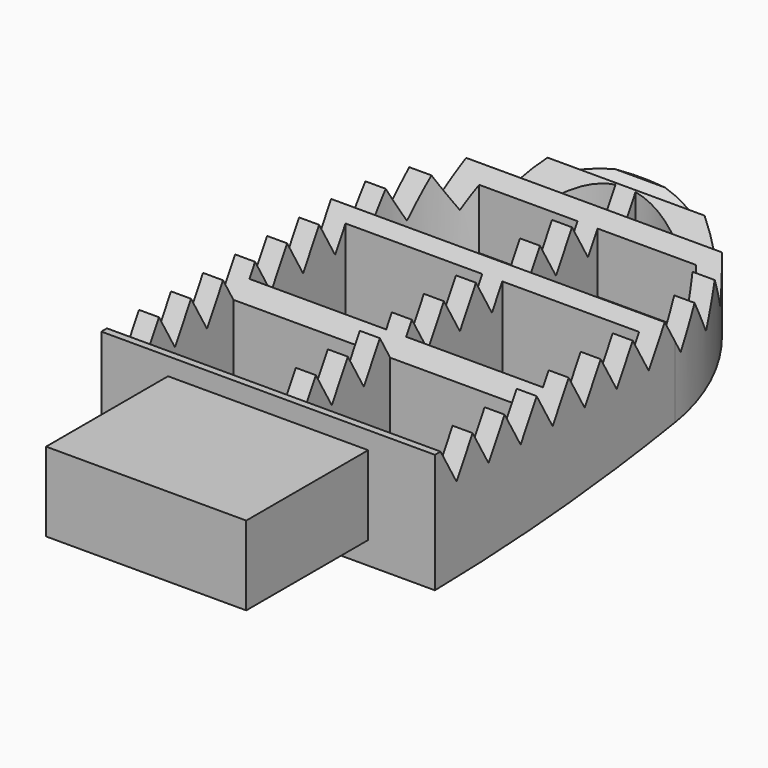
from build123d import *

# Parameters (mm, degrees)
F0_W      = 30
F0_H      = 22.8446739912
F1_DEPTH  = 30
F3_DEPTH  = 50.001
F5_DEPTH  = 50.001
F6_W      = 20.5
F6_H      = 18
F7_DEPTH  = 30.001
F8_W      = 23.6850994825
F8_H      = 6.8956923813
F9_DEPTH  = 50.001
F11_DEPTH = 50.001
F12_W     = 22.8446739912
F12_H     = 2.6407527924
F13_DEPTH = 40.0010001


with BuildPart() as f1:
    # F0 (on Top) → F1 (new body)
    with BuildSketch(Plane.XY):
        with BuildLine():
            ThreePointArc((25, 0), (0, 25), (-25, 0))
            Line((-25, 0), (-25, -45))
            Line((-25, -45), (-15, -45))
            Line((-15, -45), (15, -45))
            Line((15, -45), (25, -45))
            Line((25, -45), (25, 0))
        make_face()
        with Locations((0, -56.4223369956)):
            Rectangle(F0_W, F0_H)
    extrude(amount=F1_DEPTH)

    # F2 (on face) → F3 (cut, through all)
    with BuildSketch(Plane(origin=(-25, 0, 0), x_dir=(0, -1, 0), z_dir=(-1, 0, 0))):
        Polygon((0, 0), (0, 6.8956923813), (-25.6583113223, 19.2217491567), (-25.6583113223, 0), align=None)
        Polygon((0, 0), (14.3542923033, 0), (0, 6.8956923813), align=None)
    extrude(amount=-F3_DEPTH, mode=Mode.SUBTRACT)

    # F4 (on face) → F5 (cut, through all)
    with BuildSketch(Plane(origin=(-25, 0, 0), x_dir=(0, -1, 0), z_dir=(-1, 0, 0))):
        Polygon((-22.0570550542, 27.4019237886), (-22.0570550542, 30), (-24.7225984931, 30), align=None)
        Polygon((-19.0570550542, 24.8038475773), (-16.0570550542, 30), (-22.0570550542, 30), align=None)
        Polygon((-13.0570550542, 24.8038475773), (-10.0570550542, 30), (-16.0570550542, 30), align=None)
        Polygon((-7.0570550542, 24.8038475773), (-4.0570550542, 30), (-10.0570550542, 30), align=None)
        Polygon((-1.0570550542, 24.8038475773), (0, 26.6347206375), (0, 30), (-4.0570550542, 30), align=None)
        Polygon((0, 30), (0, 26.6347206375), (1.9429449458, 30), align=None)
        Polygon((4.9429449458, 24.8038475773), (7.9429449458, 30), (1.9429449458, 30), align=None)
        Polygon((10.9429449458, 24.8038475773), (13.9429449458, 30), (7.9429449458, 30), align=None)
        Polygon((16.9429449458, 24.8038475773), (19.9429449458, 30), (13.9429449458, 30), align=None)
        Polygon((22.9429449458, 24.8038475773), (25.9429449458, 30), (19.9429449458, 30), align=None)
        Polygon((28.9429449458, 24.8038475773), (31.9429449458, 30), (25.9429449458, 30), align=None)
        Polygon((34.9429449458, 24.8038475773), (37.9429449458, 30), (31.9429449458, 30), align=None)
        Polygon((40.9429449458, 24.8038475773), (43.9429449458, 30), (37.9429449458, 30), align=None)
    extrude(amount=-F5_DEPTH, mode=Mode.SUBTRACT)

    # F6 (on Top) → F7 (cut, through all)
    with BuildSketch(Plane.XY):
        with BuildLine():
            ThreePointArc((14.0728856666, 16.9101711705), (8.1838650627, 20.4211741248), (1.5, 21.9488040676))
            Line((1.5, 21.9488040676), (1.5, 16.9101711705))
            Line((1.5, 16.9101711705), (14.0728856666, 16.9101711705))
        make_face()
        with BuildLine():
            ThreePointArc((-1.5, 21.9488040676), (-8.1838650627, 20.4211741248), (-14.0728856666, 16.9101711705))
            Line((-14.0728856666, 16.9101711705), (-1.5, 16.9101711705))
            Line((-1.5, 16.9101711705), (-1.5, 21.9488040676))
        make_face()
        with BuildLine():
            Line((1.5, 14.8383843921), (1.5, 0))
            Line((1.5, 0), (22, 0))
            ThreePointArc((22, 0), (20.5102096408, 7.9580965369), (16.2426090463, 14.8383843921))
            Line((16.2426090463, 14.8383843921), (1.5, 14.8383843921))
        make_face()
        with BuildLine():
            ThreePointArc((-16.2426090463, 14.8383843921), (-20.5102096408, 7.9580965369), (-22, 0))
            Line((-22, 0), (-1.5, 0))
            Line((-1.5, 0), (-1.5, 14.8383843921))
            Line((-1.5, 14.8383843921), (-16.2426090463, 14.8383843921))
        make_face()
        with Locations((-11.75, -12)):
            Rectangle(F6_W, F6_H)
        with Locations((-11.75, -33)):
            Rectangle(F6_W, F6_H)
        with Locations((11.75, -12)):
            Rectangle(F6_W, F6_H)
        with Locations((11.75, -33)):
            Rectangle(F6_W, F6_H)
    extrude(amount=F7_DEPTH, mode=Mode.SUBTRACT)

    # F8 (on face) → F9 (cut, through all)
    with BuildSketch(Plane(origin=(-25, 0, 0), x_dir=(0, -1, 0), z_dir=(-1, 0, 0))):
        with Locations((56.8425497413, 3.4478461906)):
            Rectangle(F8_W, F8_H)
        Polygon((0, 6.8956923813), (14.3542923033, 0), (45, 0), (45, 6.8956923813), align=None)
    extrude(amount=-F9_DEPTH, mode=Mode.SUBTRACT)

    # F10 (on face) → F11 (cut, through all)
    with BuildSketch(Plane(origin=(-25, 0, 0), x_dir=(0, -1, 0), z_dir=(-1, 0, 0))):
        with BuildLine():
            add(Edge.make_bspline(
                [(-25.4602208734, 21.6052159667), (-1.3237191597, 14.7319072857), (24.7841980308, 12.3858377337), (45, 12.1211158112)],
                knots=[0, 0, 0, 0, 71.0956460079, 71.0956460079, 71.0956460079, 71.0956460079], degree=3))
            Line((-25.4602208734, 21.6052159667), (-25.4602208734, 18.728017807))
            Line((-25.4602208734, 18.728017807), (0, 6.8956923813))
            Line((0, 6.8956923813), (45, 6.8956923813))
            Line((45, 6.8956923813), (45, 12.1211158112))
        make_face()
    extrude(amount=-F11_DEPTH, mode=Mode.SUBTRACT)

    # F12 (on face) → F13 (cut, through all)
    with BuildSketch(Plane(origin=(-15, 0, 0), x_dir=(0, -1, 0), z_dir=(-1, 0, 0))):
        with Locations((56.4223369956, 28.6796236038)):
            Rectangle(F12_W, F12_H)
        Polygon((67.8446739912, 15.5053976923), (45, 15.5053976923), (45, 12.1211158112), (45, 6.8956923813), (67.8446739912, 6.8956923813), align=None)
    extrude(amount=-F13_DEPTH, mode=Mode.SUBTRACT)


solid = f1.part
